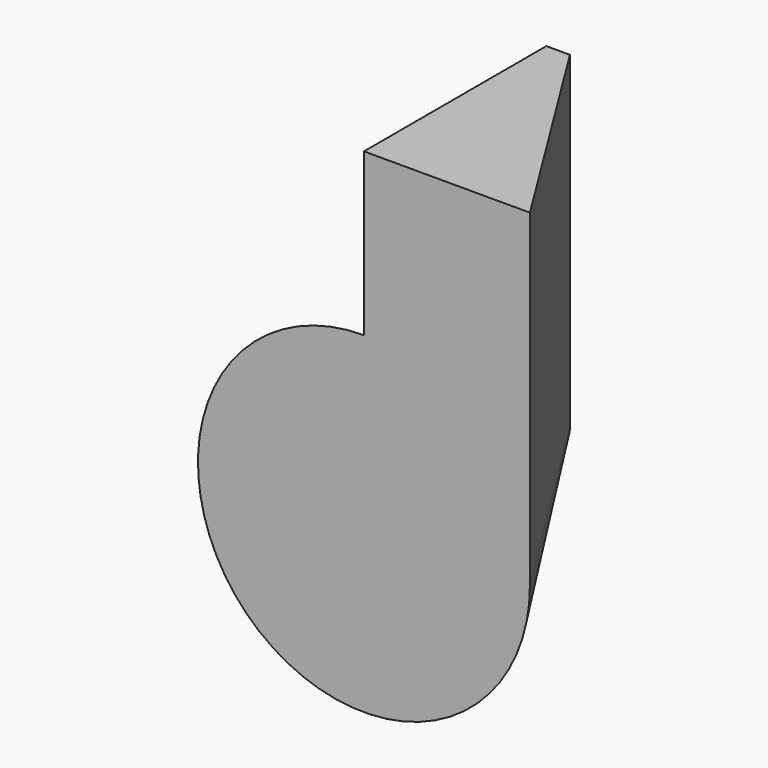
from build123d import *

# Parameters (mm, degrees)
F2_DEPTH = 93.98


with BuildPart() as f1:
    # F0 (on Top) → F1 (revolve)
    with BuildSketch(Plane.XY):
        Polygon((-29.711027, 33.31567), (-36.476273, 33.31567), (-36.476273, -32.041918), (11.112615, -32.041918), align=None)
    revolve(axis=Axis((-36.476273, 0.636876, 0), (0, -1, 0)))

    # F0 (on Top) → F2 (join)
    with BuildSketch(Plane.XY):
        Polygon((-29.711027, 33.31567), (-36.476273, 33.31567), (-36.476273, -32.041918), (11.112615, -32.041918), align=None)
    extrude(amount=F2_DEPTH)


solid = f1.part
